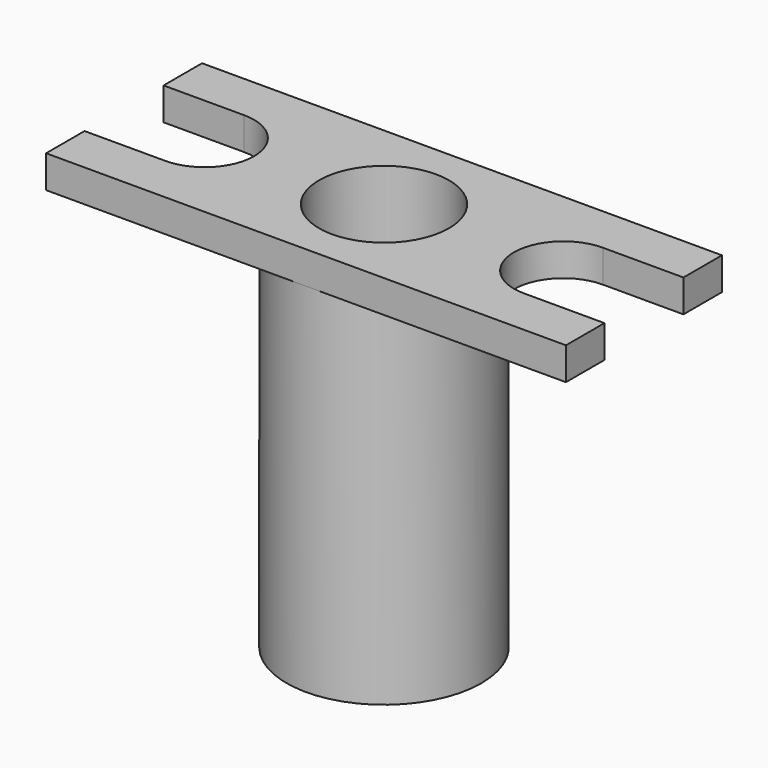
from build123d import *

# Parameters (mm, degrees)
F0_W     = 101.6
F0_H     = 38.1
F1_DEPTH = 6.35
F3_DEPTH = 25.4
F4_R     = 19.05
F5_DEPTH = 69.85
F6_R     = 12.7
F7_DEPTH = 63.5
F8_R     = 4.7625
F9_DEPTH = 76.201


with BuildPart() as f1:
    # F0 (on Top) → F1 (new body)
    with BuildSketch(Plane.XY):
        with Locations((50.8, 19.05)):
            Rectangle(F0_W, F0_H)
    extrude(amount=F1_DEPTH)

    # F2 (on Top) → F3 (cut)
    with BuildSketch(Plane.XY):
        with BuildLine():
            Line((15.748, 28.702), (0, 28.702))
            Line((0, 28.702), (0, 9.398))
            Line((0, 9.398), (15.748, 9.398))
            ThreePointArc((15.748, 9.398), (25.4, 19.05), (15.748, 28.702))
        make_face()
        with BuildLine():
            Line((101.6, 9.398), (101.6, 28.702))
            Line((101.6, 28.702), (85.852, 28.702))
            ThreePointArc((85.852, 28.702), (76.2, 19.05), (85.852, 9.398))
            Line((85.852, 9.398), (101.6, 9.398))
        make_face()
    extrude(amount=F3_DEPTH, mode=Mode.SUBTRACT)

    # F4 (on face) → F5 (join)
    with BuildSketch(Plane.XY):
        with Locations((50.8, 19.05)):
            Circle(F4_R)
    extrude(amount=-F5_DEPTH)

    # F6 (on face) → F7 (cut)
    with BuildSketch(Plane.XY.offset(6.35)):
        with Locations((50.8, 19.05)):
            Circle(F6_R)
    extrude(amount=-F7_DEPTH, mode=Mode.SUBTRACT)

    # F8 (on face) → F9 (cut, through all)
    with BuildSketch(Plane(origin=(0, 0, -69.85), x_dir=(1, 0, 0), z_dir=(0, 0, -1))):
        with Locations((50.8, -19.05)):
            Circle(F8_R)
    extrude(amount=-F9_DEPTH, mode=Mode.SUBTRACT)


solid = f1.part
